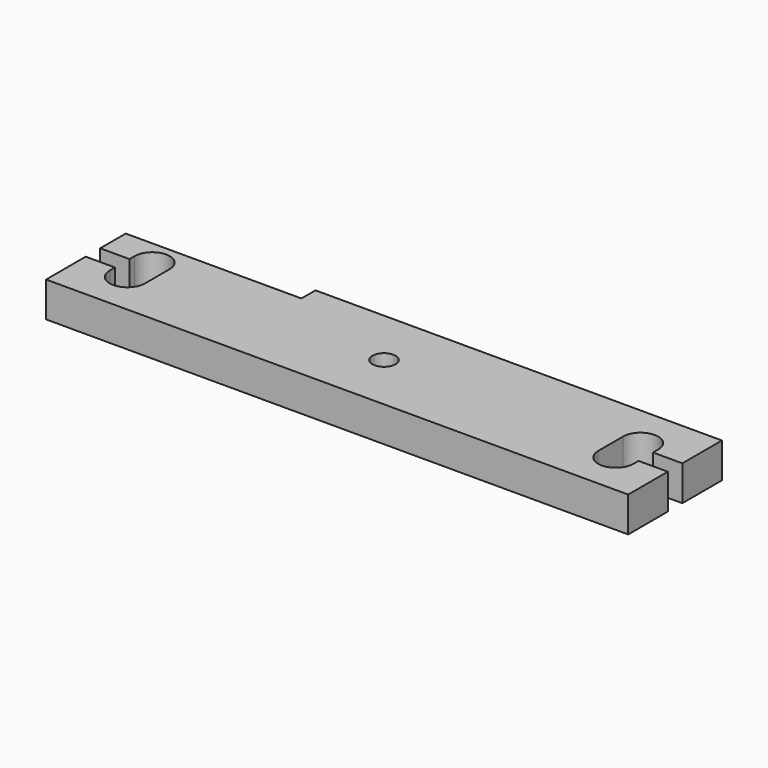
from build123d import *

# Parameters (mm, degrees)
F0_W     = 99.4
F0_H     = 20
F1_DEPTH = 6
F2_W     = 5
F2_H     = 3.1
F2_W_2   = 6
F3_DEPTH = 6
F4_R     = 1.975
F5_DEPTH = 6
F6_W     = 30
F6_H     = 3
F7_DEPTH = 6


with BuildPart() as f1:
    # F0 (on Top) → F1 (new body)
    with BuildSketch(Plane.XY):
        Rectangle(F0_W, F0_H)
    extrude(amount=F1_DEPTH)

    # F2 (on face) → F3 (cut, through all)
    with BuildSketch(Plane.XY.offset(6)):
        with Locations((-47.2, 0)):
            Rectangle(F2_W, F2_H)
        with Locations((-41.7, 0)):
            Rectangle(F2_W_2, F2_H)
        with BuildLine():
            Line((-38.7, -1.55), (-44.7, -1.55))
            Line((-44.7, -1.55), (-44.7, -2.65))
            ThreePointArc((-44.7, -2.65), (-41.7, -5.65), (-38.7, -2.65))
            Line((-38.7, -2.65), (-38.7, -1.55))
        make_face()
        with BuildLine():
            Line((-44.7, 2.65), (-44.7, 1.55))
            Line((-44.7, 1.55), (-38.7, 1.55))
            Line((-38.7, 1.55), (-38.7, 2.65))
            ThreePointArc((-38.7, 2.65), (-41.7, 5.65), (-44.7, 2.65))
        make_face()
        with Locations((41.7, 0)):
            Rectangle(F2_W_2, F2_H)
        with BuildLine():
            Line((38.7, 2.65), (38.7, 1.55))
            Line((38.7, 1.55), (44.7, 1.55))
            Line((44.7, 1.55), (44.7, 2.65))
            ThreePointArc((44.7, 2.65), (41.7, 5.65), (38.7, 2.65))
        make_face()
        with BuildLine():
            Line((44.7, -1.55), (38.7, -1.55))
            Line((38.7, -1.55), (38.7, -2.65))
            ThreePointArc((38.7, -2.65), (41.7, -5.65), (44.7, -2.65))
            Line((44.7, -2.65), (44.7, -1.55))
        make_face()
        with Locations((47.2, 0)):
            Rectangle(F2_W, F2_H)
    extrude(amount=-F3_DEPTH, mode=Mode.SUBTRACT)

    # F4 (on face) → F5 (cut, through all)
    with BuildSketch(Plane.XY.offset(6)):
        Circle(F4_R)
    extrude(amount=-F5_DEPTH, mode=Mode.SUBTRACT)

    # F6 (on face) → F7 (cut, through all)
    with BuildSketch(Plane.XY.offset(6)):
        with Locations((-34.7, 8.5)):
            Rectangle(F6_W, F6_H)
    extrude(amount=-F7_DEPTH, mode=Mode.SUBTRACT)


solid = f1.part
